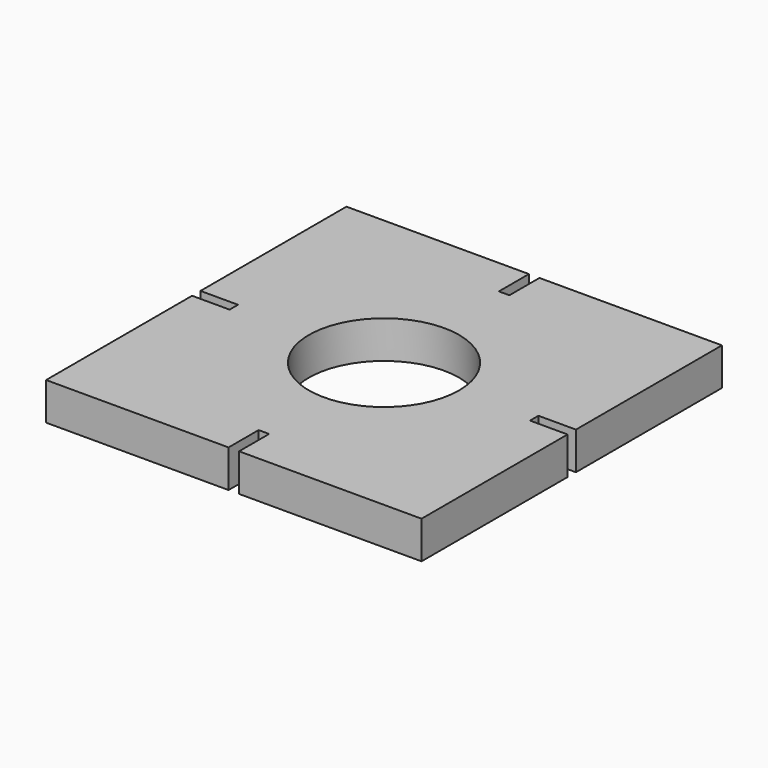
from build123d import *

# Parameters (mm, degrees)
F0_W      = 63.5
F0_H      = 63.5
F1_DEPTH  = 3.175
F1_FACE_W = 63.5
F1_FACE_H = 63.5
F2_DEPTH  = 3.175
F3_R      = 12.7
F4_DEPTH  = 6.35
F5_DEPTH  = 25.4
F6_DEPTH  = 25.4
F7_DEPTH  = 25.4
F8_DEPTH  = 25.4


with BuildPart() as f1:
    # F0 (on Top) → F1 (new body)
    with BuildSketch(Plane.XY):
        Rectangle(F0_W, F0_H)
    extrude(amount=F1_DEPTH)

    # F1_face (on face) → F2 (join)
    with BuildSketch(Plane(origin=(0, 0, 0), x_dir=(1, 0, 0), z_dir=(0, 0, -1))):
        Rectangle(F1_FACE_W, F1_FACE_H)
    extrude(amount=F2_DEPTH)

    # F3 (on face) → F4 (cut)
    with BuildSketch(Plane.XY.offset(3.175)):
        Circle(F3_R)
        Polygon((0.889, 31.75), (0, 31.75), (-0.889, 31.75), (-0.889, 25.4), (0.889, 25.4), align=None)
        Polygon((31.75, -0.889), (31.75, 0), (31.75, 0.889), (25.4, 0.889), (25.4, -0.889), align=None)
        Polygon((-0.889, -31.75), (0, -31.75), (0.889, -31.75), (0.889, -25.4), (-0.889, -25.4), align=None)
        Polygon((-31.75, 0.889), (-31.75, 0), (-31.75, -0.889), (-25.4, -0.889), (-25.4, 0.889), align=None)
    extrude(amount=-F4_DEPTH, mode=Mode.SUBTRACT)

    # F3 (on face) → F5 (cut)
    with BuildSketch(Plane.XY.offset(3.175)):
        Circle(F3_R)
        Polygon((0.889, 31.75), (0, 31.75), (-0.889, 31.75), (-0.889, 25.4), (0.889, 25.4), align=None)
        Polygon((31.75, -0.889), (31.75, 0), (31.75, 0.889), (25.4, 0.889), (25.4, -0.889), align=None)
        Polygon((-0.889, -31.75), (0, -31.75), (0.889, -31.75), (0.889, -25.4), (-0.889, -25.4), align=None)
        Polygon((-31.75, 0.889), (-31.75, 0), (-31.75, -0.889), (-25.4, -0.889), (-25.4, 0.889), align=None)
    extrude(amount=-F5_DEPTH, mode=Mode.SUBTRACT)

    # F3 (on face) → F6 (cut)
    with BuildSketch(Plane.XY.offset(3.175)):
        Circle(F3_R)
        Polygon((0.889, 31.75), (0, 31.75), (-0.889, 31.75), (-0.889, 25.4), (0.889, 25.4), align=None)
        Polygon((31.75, -0.889), (31.75, 0), (31.75, 0.889), (25.4, 0.889), (25.4, -0.889), align=None)
        Polygon((-0.889, -31.75), (0, -31.75), (0.889, -31.75), (0.889, -25.4), (-0.889, -25.4), align=None)
        Polygon((-31.75, 0.889), (-31.75, 0), (-31.75, -0.889), (-25.4, -0.889), (-25.4, 0.889), align=None)
    extrude(amount=-F6_DEPTH, mode=Mode.SUBTRACT)

    # F3 (on face) → F7 (cut)
    with BuildSketch(Plane.XY.offset(3.175)):
        Circle(F3_R)
        Polygon((0.889, 31.75), (0, 31.75), (-0.889, 31.75), (-0.889, 25.4), (0.889, 25.4), align=None)
        Polygon((31.75, -0.889), (31.75, 0), (31.75, 0.889), (25.4, 0.889), (25.4, -0.889), align=None)
        Polygon((-0.889, -31.75), (0, -31.75), (0.889, -31.75), (0.889, -25.4), (-0.889, -25.4), align=None)
        Polygon((-31.75, 0.889), (-31.75, 0), (-31.75, -0.889), (-25.4, -0.889), (-25.4, 0.889), align=None)
    extrude(amount=-F7_DEPTH, mode=Mode.SUBTRACT)

    # F3 (on face) → F8 (cut)
    with BuildSketch(Plane.XY.offset(3.175)):
        Circle(F3_R)
        Polygon((0.889, 31.75), (0, 31.75), (-0.889, 31.75), (-0.889, 25.4), (0.889, 25.4), align=None)
        Polygon((31.75, -0.889), (31.75, 0), (31.75, 0.889), (25.4, 0.889), (25.4, -0.889), align=None)
        Polygon((-0.889, -31.75), (0, -31.75), (0.889, -31.75), (0.889, -25.4), (-0.889, -25.4), align=None)
        Polygon((-31.75, 0.889), (-31.75, 0), (-31.75, -0.889), (-25.4, -0.889), (-25.4, 0.889), align=None)
    extrude(amount=-F8_DEPTH, mode=Mode.SUBTRACT)


solid = f1.part
